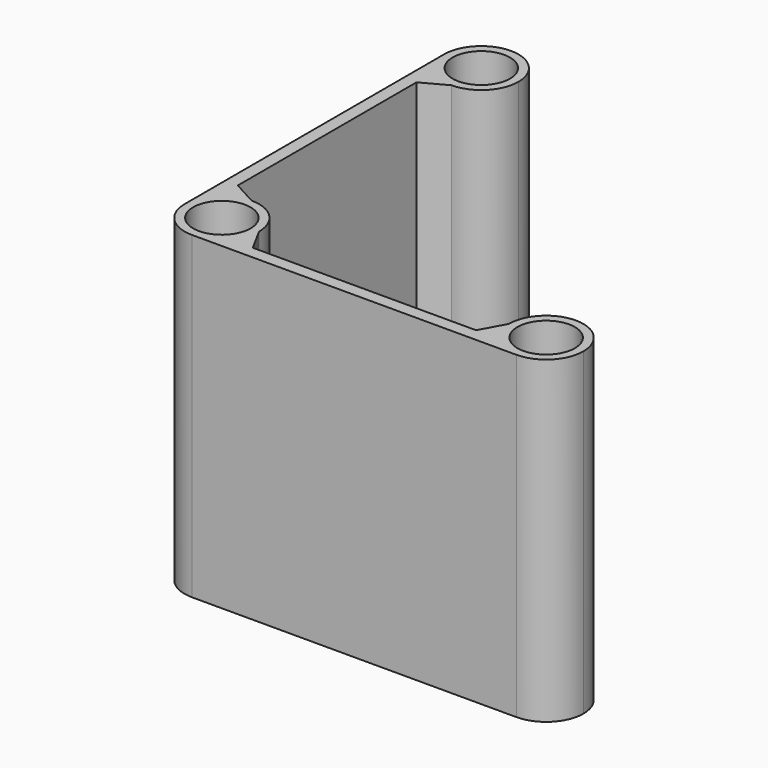
from build123d import *

# Parameters (mm, degrees)
F0_R     = 2.7
F1_DEPTH = 30


with BuildPart() as f1:
    # F0 (on Top) → F1 (new body)
    with BuildSketch(Plane.XY):
        with BuildLine():
            ThreePointArc((-15.25, 11.75), (-12.775126, 12.775126), (-11.75, 15.25))
            ThreePointArc((-11.75, 15.25), (-15.25, 18.75), (-18.75, 15.25))
            ThreePointArc((-18.75, 15.25), (-18.435906, 13.800862), (-17.55, 12.611819))
            ThreePointArc((-17.55, 12.611819), (-16.478081, 11.972529), (-15.25, 11.75))
        make_face()
        with Locations((-15.25, 15.25)):
            Circle(F0_R, mode=Mode.SUBTRACT)
        with BuildLine():
            Line((-17.55, 10.5), (-15.25, 11.75))
            ThreePointArc((-15.25, 11.75), (-16.478081, 11.972529), (-17.55, 12.611819))
            Line((-17.55, 12.611819), (-17.55, 10.5))
        make_face()
        with BuildLine():
            ThreePointArc((-17.55, 12.611819), (-18.435906, 13.800862), (-18.75, 15.25))
            Line((-18.75, 15.25), (-18.75, -15.25))
            ThreePointArc((-18.75, -15.25), (-18.435906, -13.800862), (-17.55, -12.611819))
            Line((-17.55, -12.611819), (-17.55, -10.5))
            Line((-17.55, -10.5), (-17.55, 10.5))
            Line((-17.55, 10.5), (-17.55, 12.611819))
        make_face()
        with BuildLine():
            ThreePointArc((-17.55, -12.611819), (-18.435906, -13.800862), (-18.75, -15.25))
            ThreePointArc((-18.75, -15.25), (-17.724874, -17.724874), (-15.25, -18.75))
            ThreePointArc((-15.25, -18.75), (-13.800862, -18.435906), (-12.611819, -17.55))
            ThreePointArc((-12.611819, -17.55), (-11.972529, -16.478081), (-11.75, -15.25))
            ThreePointArc((-11.75, -15.25), (-12.775126, -12.775126), (-15.25, -11.75))
            ThreePointArc((-15.25, -11.75), (-16.478081, -11.972529), (-17.55, -12.611819))
        make_face()
        with Locations((-15.25, -15.25)):
            Circle(F0_R, mode=Mode.SUBTRACT)
        with BuildLine():
            Line((-17.55, -10.5), (-17.55, -12.611819))
            ThreePointArc((-17.55, -12.611819), (-16.478081, -11.972529), (-15.25, -11.75))
            Line((-15.25, -11.75), (-17.55, -10.5))
        make_face()
        with BuildLine():
            ThreePointArc((-11.75, -15.25), (-11.972529, -16.478081), (-12.611819, -17.55))
            Line((-12.611819, -17.55), (-10.5, -17.55))
            Line((-10.5, -17.55), (-11.75, -15.25))
        make_face()
        with BuildLine():
            ThreePointArc((-12.611819, -17.55), (-13.800862, -18.435906), (-15.25, -18.75))
            Line((-15.25, -18.75), (15.25, -18.75))
            ThreePointArc((15.25, -18.75), (13.800862, -18.435906), (12.611819, -17.55))
            Line((12.611819, -17.55), (10.5, -17.55))
            Line((10.5, -17.55), (-10.5, -17.55))
            Line((-10.5, -17.55), (-12.611819, -17.55))
        make_face()
        with BuildLine():
            Line((10.5, -17.55), (12.611819, -17.55))
            ThreePointArc((12.611819, -17.55), (11.972529, -16.478081), (11.75, -15.25))
            Line((11.75, -15.25), (10.5, -17.55))
        make_face()
        with BuildLine():
            ThreePointArc((12.611819, -17.55), (13.800862, -18.435906), (15.25, -18.75))
            ThreePointArc((15.25, -18.75), (17.724874, -17.724874), (18.75, -15.25))
            ThreePointArc((18.75, -15.25), (15.25, -11.75), (11.75, -15.25))
            ThreePointArc((11.75, -15.25), (11.972529, -16.478081), (12.611819, -17.55))
        make_face()
        with Locations((15.25, -15.25)):
            Circle(F0_R, mode=Mode.SUBTRACT)
    extrude(amount=F1_DEPTH)


solid = f1.part
